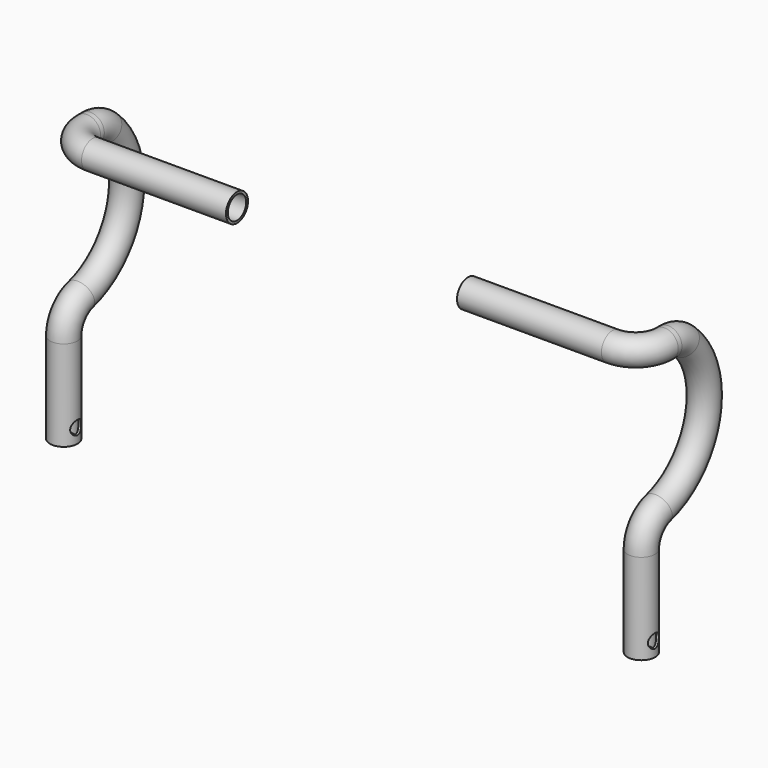
from build123d import *

# Parameters (mm, degrees)
F3_R          = 9.55
F3_R_2        = 7.95
F5_R          = 4.75
F6_DEPTH      = 120.001
F6_DEPTH_BACK = 9.5510001


with BuildPart() as f4:
    # F4: sweep along a path in F0, F1
    with BuildLine(Plane.YZ) as f4_path:
        Line((0, -180), (0, -117.2652422834))
        ThreePointArc((0, -117.2652422834), (4.0723110538, -105.1694279317), (14.6308724832, -97.9994054288))
        ThreePointArc((14.6308724832, -97.9994054288), (53.0195711367, -58.116460537), (36.7091464988, -5.2173913043))
        ThreePointArc((36.7091464988, -5.2173913043), (30.4610512624, -1.3499038352), (23.2379000772, 0))
    with BuildLine(Plane.XY) as f4_path_2:
        Line((0, 23.2379000772), (0, 20))
        ThreePointArc((0, 20), (-5.8578643763, 5.8578643763), (-20, 0))
        Line((-20, 0), (-120, 0))
    # F3 (on line) → F4 (sweep)
    with BuildSketch(Plane(origin=(0, 0, -180), x_dir=(1, 0, 0), z_dir=(0, 0, -1))):
        Circle(F3_R)
        Circle(F3_R_2, mode=Mode.SUBTRACT)
    sweep(path=f4_path.line + f4_path_2.line)

    # F5 (on Right) → F6 (cut, two sides)
    with BuildSketch(Plane.YZ) as f6_sk:
        with Locations((0, -170)):
            Circle(F5_R)
    extrude(amount=-F6_DEPTH, mode=Mode.SUBTRACT)
    extrude(f6_sk.sketch, amount=F6_DEPTH_BACK, mode=Mode.SUBTRACT)


with BuildPart() as f8_1:
    # F8: instance of F4
    add(f4.part.mirror(Plane.YZ.offset(-200)))


solid = Compound([f4.part, f8_1.part])
